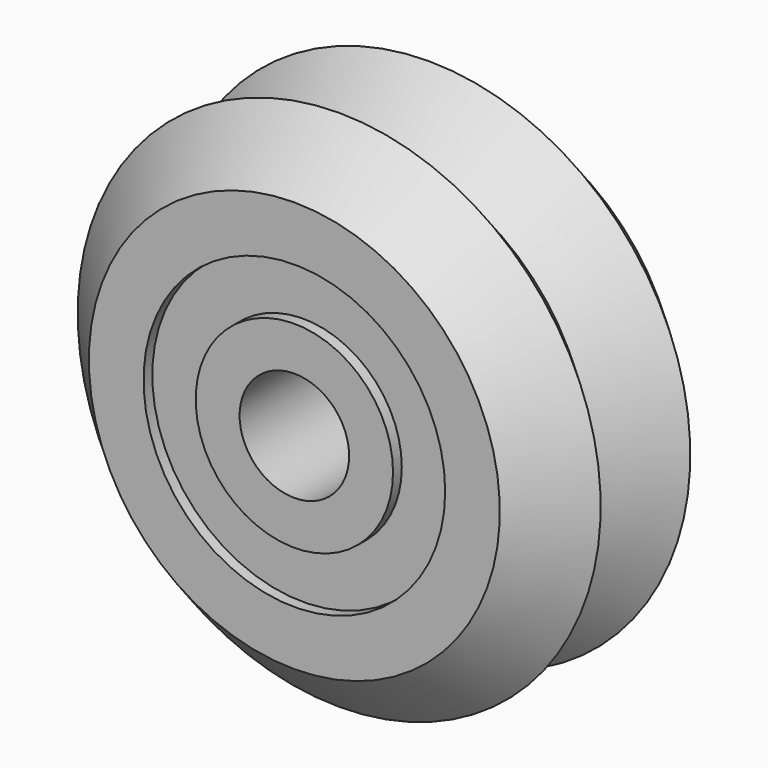
from build123d import *

# Parameters (mm, degrees)
F0_R     = 9.38
F0_R_2   = 2.5
F1_DEPTH = 5.115
F4_R     = 6.884933
F4_R_2   = 4.503868
F5_DEPTH = 0.5
F6_R     = 6.884933
F6_R_2   = 4.503868
F7_DEPTH = 0.5


with BuildPart() as f1:
    # F0 (on Front) → F1 (new body, symmetric)
    with BuildSketch(Plane.XZ):
        Circle(F0_R)
        Circle(F0_R_2, mode=Mode.SUBTRACT)
    extrude(amount=F1_DEPTH, both=True)

    # F2 (on Right) → F3 (revolve)
    with BuildSketch(Plane.YZ):
        Polygon((-5.115, 9.38), (0, 9.38), (-2.5575, 11.9375), align=None)
        Polygon((2.5575, 11.9375), (0, 9.38), (5.115, 9.38), align=None)
    revolve(axis=Axis((0, 0, 0), (0, 1, 0)))

    # F4 (on face) → F5 (cut)
    with BuildSketch(Plane(origin=(0, 5.115, 0), x_dir=(-1, 0, 0), z_dir=(0, 1, 0))):
        Circle(F4_R)
        Circle(F4_R_2, mode=Mode.SUBTRACT)
    extrude(amount=-F5_DEPTH, mode=Mode.SUBTRACT)

    # F6 (on face) → F7 (cut)
    with BuildSketch(Plane.XZ.offset(5.115)):
        Circle(F6_R)
        Circle(F6_R_2, mode=Mode.SUBTRACT)
    extrude(amount=-F7_DEPTH, mode=Mode.SUBTRACT)


solid = f1.part
